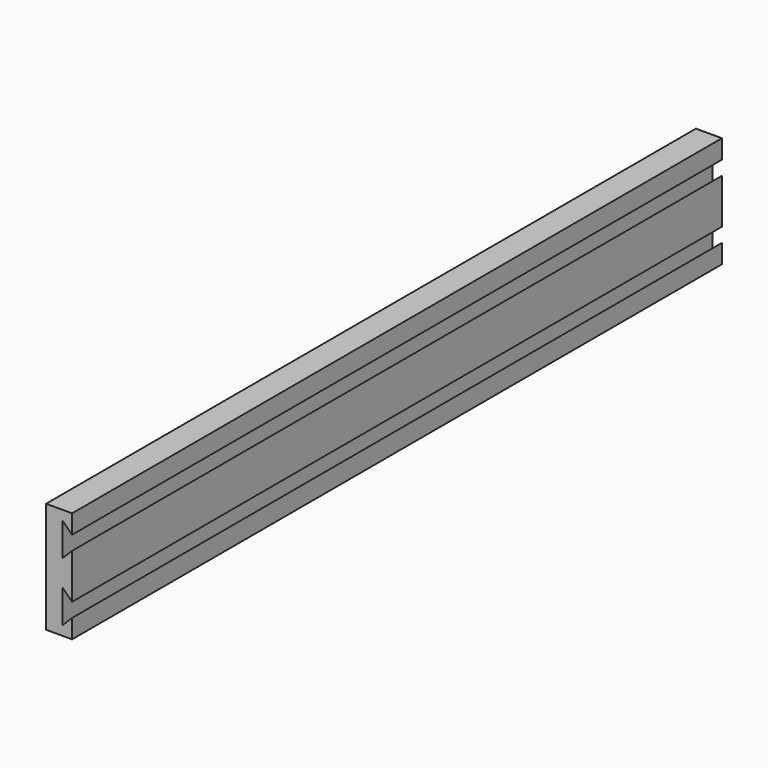
from build123d import *

# Parameters (mm, degrees)
F1_DEPTH = 38.1
F3_DEPTH = 2184.4


with BuildPart() as f1:
    # F0 (on Right) → F1 (new body)
    with BuildSketch(Plane.YZ):
        Polygon((0, 95.25), (0, 0), (44.45, 0), (44.45, 50.8), (82.55, 50.8), (82.55, 0), (2184.4, 0), (2184.4, 95.25), align=None)
    extrude(amount=F1_DEPTH)


with BuildPart() as f3:
    # F2 (on Front) → F3 (new body)
    with BuildSketch(Plane.XZ):
        Polygon((0, 298.45), (0, 0), (69.85, 0), (69.85, 50.8), (44.45, 25.4), (44.45, 114.3), (69.85, 88.9), (69.85, 209.55), (44.45, 184.15), (44.45, 273.05), (69.85, 247.65), (69.85, 298.45), align=None)
    extrude(amount=-F3_DEPTH)


solid = Compound([f1.part, f3.part])
